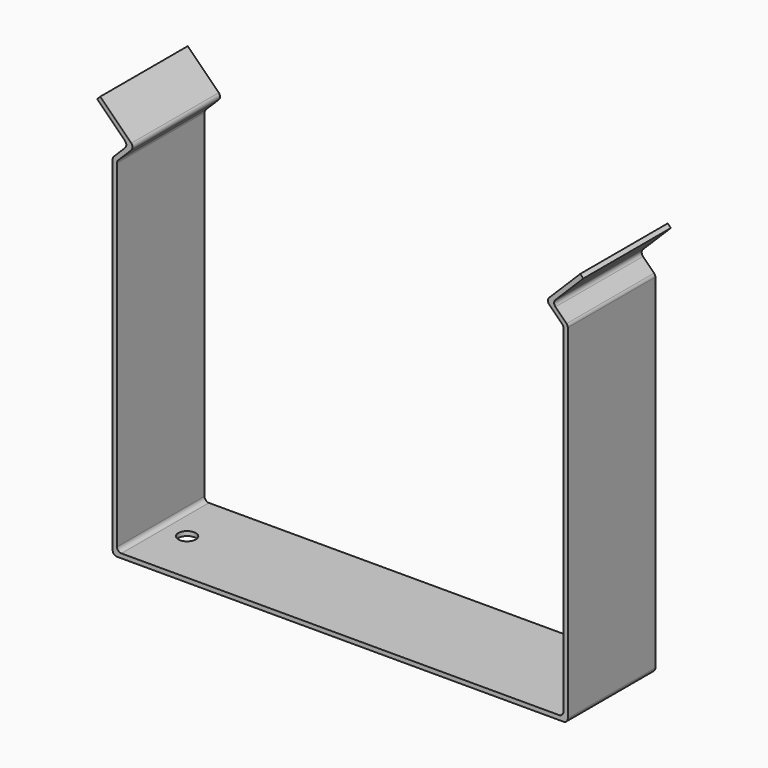
from build123d import *

# Parameters (mm, degrees)
F1_DEPTH = 25
F3_D     = 4
F3_DEPTH = 12
F3_TIP   = 1.2017212381


with BuildPart() as f1:
    # F0 (on Front) → F1 (new body)
    with BuildSketch(Plane.XZ):
        with BuildLine():
            Line((-51, 0), (0, 0))
            Line((0, 0), (51, 0))
            ThreePointArc((51, 0), (51.7071067812, 0.2928932188), (52, 1))
            Line((52, 1), (52, 79.5857864376))
            ThreePointArc((52, 79.5857864376), (51.9238795325, 79.96846987), (51.7071067812, 80.2928932188))
            Line((51.7071067812, 80.2928932188), (49.1715728753, 82.8284271247))
            ThreePointArc((49.1715728753, 82.8284271247), (48.8786796564, 83.5355339059), (49.1715728753, 84.2426406871))
            Line((49.1715728753, 84.2426406871), (52, 87.0710678119))
            Line((52, 87.0710678119), (55.5355339059, 90.6066017178))
            Line((55.5355339059, 90.6066017178), (54.8284271247, 91.313708499))
            Line((54.8284271247, 91.313708499), (47.7573593129, 84.2426406871))
            ThreePointArc((47.7573593129, 84.2426406871), (47.4644660941, 83.5355339059), (47.7573593129, 82.8284271247))
            Line((47.7573593129, 82.8284271247), (50.5857864376, 80))
            Line((50.5857864376, 80), (50.7071067812, 79.8786796564))
            ThreePointArc((50.7071067812, 79.8786796564), (50.9238795325, 79.5542563076), (51, 79.1715728753))
            Line((51, 79.1715728753), (51, 2))
            ThreePointArc((51, 2), (50.7071067812, 1.2928932188), (50, 1))
            Line((50, 1), (0, 1))
            Line((0, 1), (-50, 1))
            ThreePointArc((-50, 1), (-50.7071067812, 1.2928932188), (-51, 2))
            Line((-51, 2), (-51, 79.1715728753))
            ThreePointArc((-51, 79.1715728753), (-50.9238795325, 79.5542563076), (-50.7071067812, 79.8786796564))
            Line((-50.7071067812, 79.8786796564), (-50.5857864376, 80))
            Line((-50.5857864376, 80), (-47.7573593129, 82.8284271247))
            ThreePointArc((-47.7573593129, 82.8284271247), (-47.4644660941, 83.5355339059), (-47.7573593129, 84.2426406871))
            Line((-47.7573593129, 84.2426406871), (-54.8284271247, 91.313708499))
            Line((-54.8284271247, 91.313708499), (-55.5355339059, 90.6066017178))
            Line((-55.5355339059, 90.6066017178), (-52, 87.0710678119))
            Line((-52, 87.0710678119), (-49.1715728753, 84.2426406871))
            ThreePointArc((-49.1715728753, 84.2426406871), (-48.8786796564, 83.5355339059), (-49.1715728753, 82.8284271247))
            Line((-49.1715728753, 82.8284271247), (-51.7071067812, 80.2928932188))
            ThreePointArc((-51.7071067812, 80.2928932188), (-51.9238795325, 79.96846987), (-52, 79.5857864376))
            Line((-52, 79.5857864376), (-52, 1))
            ThreePointArc((-52, 1), (-51.7071067812, 0.2928932188), (-51, 0))
        make_face()
    extrude(amount=F1_DEPTH)

    # F3
    with Locations(Plane(origin=(0, 0, 0), x_dir=(1, 0, 0), z_dir=(0, 0, -1))):
        with Locations((-45, 12.5), (45, 12.5)):
            Hole(F3_D / 2, depth=F3_DEPTH)
            with Locations((0, 0, -(F3_DEPTH + F3_TIP / 2))):  # 118° drill point
                Cone(0, F3_D / 2, F3_TIP, mode=Mode.SUBTRACT)


solid = f1.part
